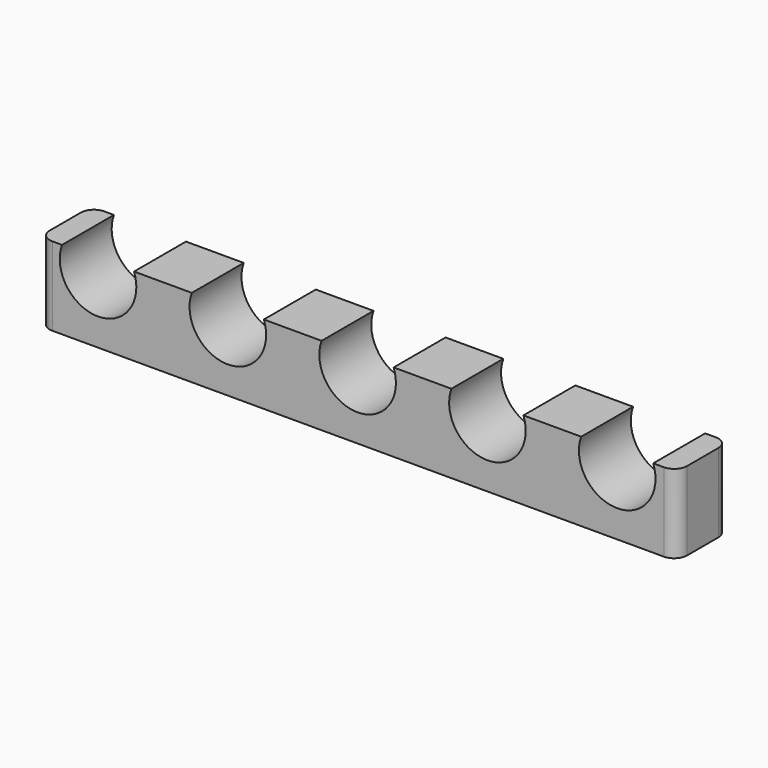
from build123d import *

# Parameters (mm, degrees)
F0_W     = 49.112496
F0_H     = 0.706024
F1_DEPTH = 5
F2_R     = 1


with BuildPart() as f1:
    # F0 (on Front) → F1 (new body)
    with BuildSketch(Plane.XZ):
        with BuildLine():
            ThreePointArc((-17.224662, 1.719839), (-17.093994, 1.227409), (-17.05, 0.719839))
            ThreePointArc((-17.05, 0.719839), (-20.507569, -2.186167), (-22.775338, 1.719839))
            Line((-22.775338, 1.719839), (-24.523877, 1.719839))
            Line((-24.523877, 1.719839), (-24.523877, -3.639312))
            Line((-24.523877, -3.639312), (24.588619, -3.639312))
            Line((24.588619, -3.639312), (24.588619, 1.719839))
            Line((24.588619, 1.719839), (22.775338, 1.719839))
            ThreePointArc((22.775338, 1.719839), (22.906006, 1.227409), (22.95, 0.719839))
            ThreePointArc((22.95, 0.719839), (19.492431, -2.186167), (17.224662, 1.719839))
            Line((17.224662, 1.719839), (12.775338, 1.719839))
            ThreePointArc((12.775338, 1.719839), (12.906006, 1.227409), (12.95, 0.719839))
            ThreePointArc((12.95, 0.719839), (9.492431, -2.186167), (7.224662, 1.719839))
            Line((7.224662, 1.719839), (2.775338, 1.719839))
            ThreePointArc((2.775338, 1.719839), (2.906006, 1.227409), (2.95, 0.719839))
            ThreePointArc((2.95, 0.719839), (-0.507569, -2.186167), (-2.775338, 1.719839))
            Line((-2.775338, 1.719839), (-7.224662, 1.719839))
            ThreePointArc((-7.224662, 1.719839), (-7.093994, 1.227409), (-7.05, 0.719839))
            ThreePointArc((-7.05, 0.719839), (-10.507569, -2.186167), (-12.775338, 1.719839))
            Line((-12.775338, 1.719839), (-17.224662, 1.719839))
        make_face()
        with Locations((0.032371, -3.992324)):
            Rectangle(F0_W, F0_H)
    extrude(amount=F1_DEPTH)

    # F2
    f2_edges = [f1.edges().sort_by_distance(p)[0] for p in [
        (24.588619, -5, -1.312748),
        (24.588619, 0, -1.312748),
        (-24.523877, -5, -1.312748),
        (-24.523877, 0, -1.312748),
    ]]
    fillet(f2_edges, radius=F2_R)


solid = f1.part
